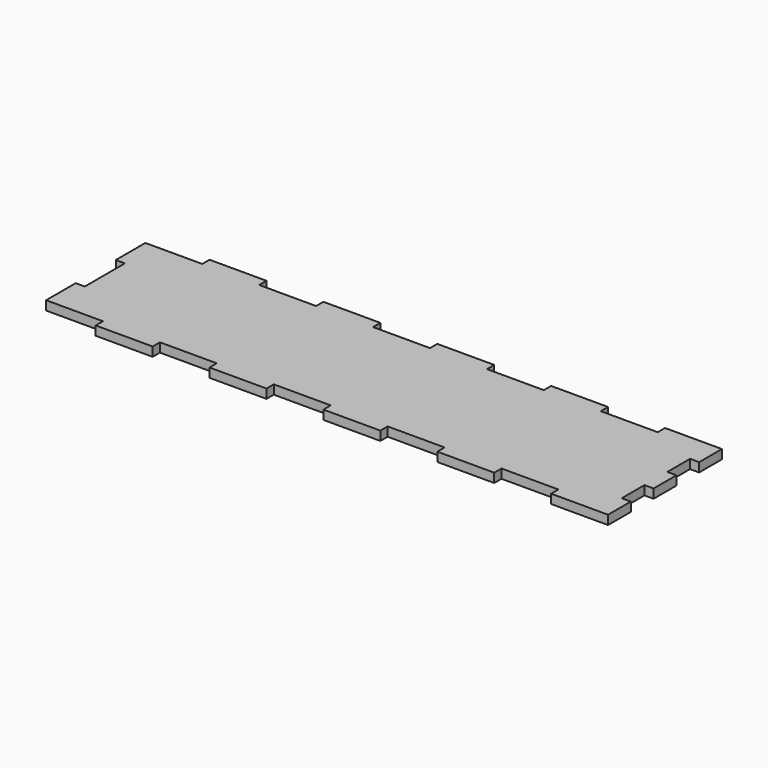
from build123d import *

# Parameters (mm, degrees)
F1_DEPTH = 3.2


with BuildPart() as f1:
    # F0 (on Top) → F1 (new body)
    with BuildSketch(Plane.XY):
        Polygon((-65.523831, 30), (-85.523831, 30), (-85.523831, 26.8), (-105.523831, 26.8), (-105.523831, 13.8), (-102.323831, 13.8), (-102.323831, -3.8), (-105.523831, -3.8), (-105.523831, -16.8), (-85.523831, -16.8), (-85.523831, -20), (-65.523831, -20), (-65.523831, -16.8), (-45.523831, -16.8), (-45.523831, -20), (-25.523831, -20), (-25.523831, -16.8), (-5.523831, -16.8), (-5.523831, -20), (14.476169, -20), (14.476169, -16.8), (34.476169, -16.8), (34.476169, -20), (54.476169, -20), (54.476169, -16.8), (74.476169, -16.8), (74.476169, -20), (94.476169, -20), (94.476169, -10), (91.276169, -10), (91.276169, 0), (94.476169, 0), (94.476169, 10), (91.276169, 10), (91.276169, 20), (94.476169, 20), (94.476169, 30), (74.476169, 30), (74.476169, 26.8), (54.476169, 26.8), (54.476169, 30), (34.476169, 30), (34.476169, 26.8), (14.476169, 26.8), (14.476169, 30), (-5.523831, 30), (-5.523831, 26.8), (-25.523831, 26.8), (-25.523831, 30), (-45.523831, 30), (-45.523831, 26.8), (-65.523831, 26.8), align=None)
    extrude(amount=F1_DEPTH)


solid = f1.part
